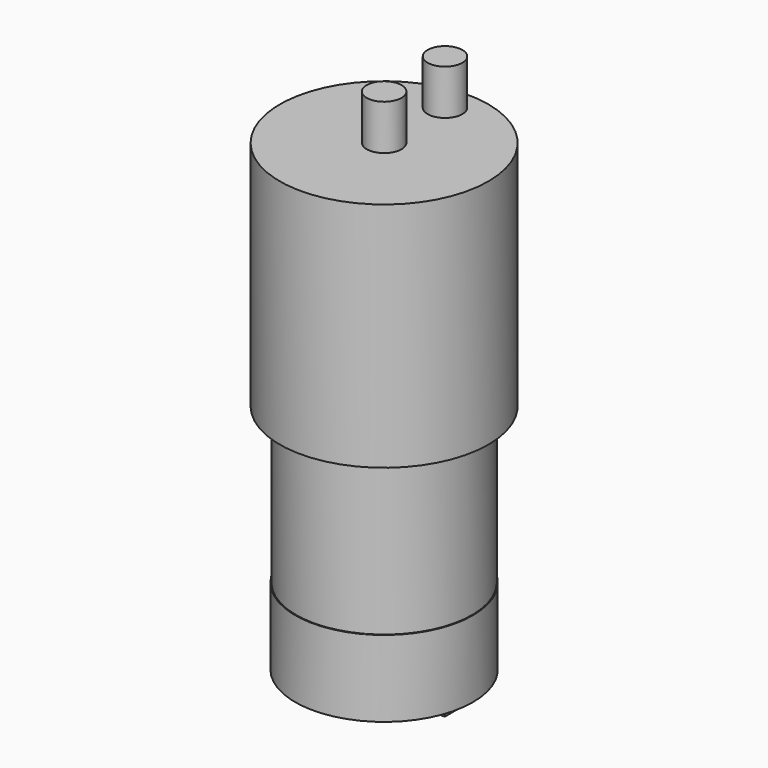
from build123d import *

# Parameters (mm, degrees)
F0_W      = 4.18402
F0_H      = 30
F2_R      = 13.5
F3_DEPTH  = 30
F4_R      = 11.5
F5_DEPTH  = 9.9
F6_W      = 1.150094
F6_H      = 4.307738
F7_DEPTH  = 1.4
F6_R      = 3.498999
F8_DEPTH  = 34.8
F9_R      = 2.25
F10_DEPTH = 5.85


with BuildPart() as f1:
    # F0 (on Right) → F1 (revolve)
    with BuildSketch(Plane.YZ):
        with Locations((-9.298615, 15)):
            Rectangle(F0_W, F0_H)
    revolve(axis=Axis((0, 0, 13.057403), (0, 0, -1)))

    # F2 (on face) → F3 (join)
    with BuildSketch(Plane.XY.offset(30)):
        Circle(F2_R)
    extrude(amount=F3_DEPTH)

    # F4 (on face) → F5 (join)
    with BuildSketch(Plane(origin=(0, 0, 0), x_dir=(1, 0, 0), z_dir=(0, 0, -1))):
        Circle(F4_R)
    extrude(amount=-F5_DEPTH)

    # F6 (on face) → F7 (join)
    with BuildSketch(Plane(origin=(0, 0, 0), x_dir=(1, 0, 0), z_dir=(0, 0, -1))):
        with Locations((-9, 0)):
            Rectangle(F6_W, F6_H)
        with Locations((9, 0)):
            Rectangle(F6_W, F6_H)
    extrude(amount=F7_DEPTH)

    # F6 (on face) → F8 (cut)
    with BuildSketch(Plane(origin=(0, 0, 0), x_dir=(1, 0, 0), z_dir=(0, 0, -1))):
        Circle(F6_R)
    extrude(amount=-F8_DEPTH, mode=Mode.SUBTRACT)

    # F9 (on face) → F10 (join)
    with BuildSketch(Plane.XY.offset(60)):
        Circle(F9_R)
        with Locations((0, 9.85)):
            Circle(F9_R)
    extrude(amount=F10_DEPTH)


solid = f1.part
